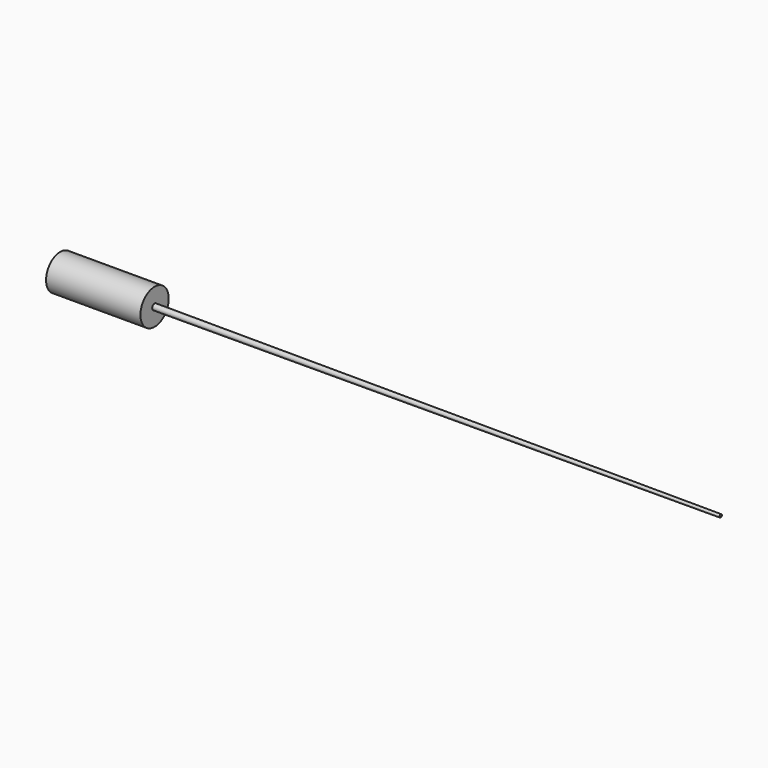
from build123d import *

# Parameters (mm, degrees)
F0_R     = 4.7625
F1_DEPTH = 25.4
F2_R     = 0.79375
F3_DEPTH = 152.4
F3_TAPER = 0.15


with BuildPart() as f1:
    # F0 (on Right) → F1 (new body)
    with BuildSketch(Plane.YZ):
        Circle(F0_R)
    extrude(amount=-F1_DEPTH)

    # F2 (on face) → F3 (join)
    with BuildSketch(Plane.YZ):
        Circle(F2_R)
    extrude(amount=F3_DEPTH, taper=F3_TAPER)


solid = f1.part
